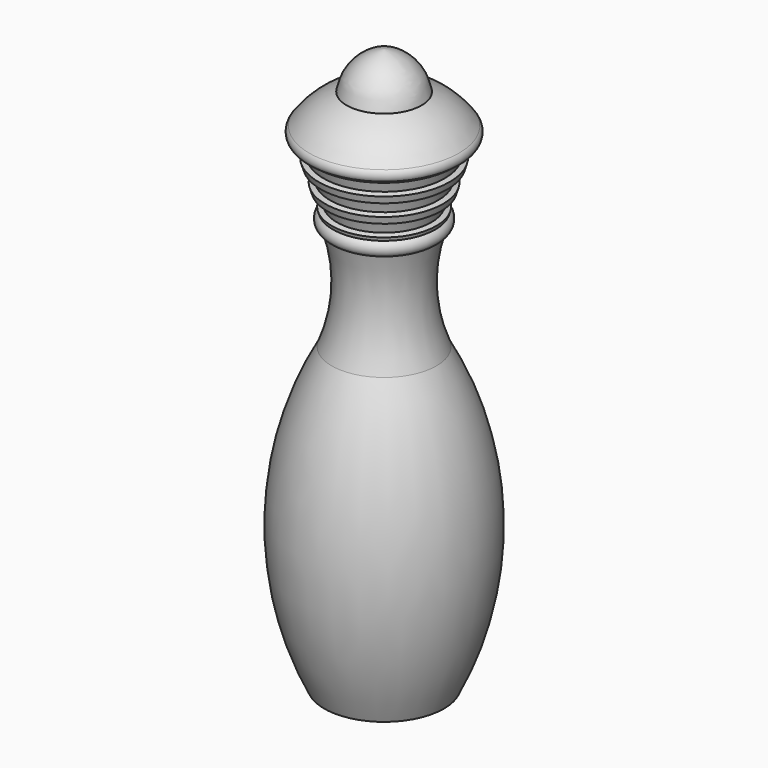
from build123d import *


with BuildPart() as f1:
    # F0 (on Front) → F1 (revolve)
    with BuildSketch(Plane.XZ):
        with BuildLine():
            Line((0, -75), (8, -75))
            ThreePointArc((8, -75), (12.48669, -54.875333), (7, -35))
            ThreePointArc((7, -35), (5.513022, -28.044178), (6.5, -21))
            ThreePointArc((6.5, -21), (7.31028, -20.111849), (6.852941, -19))
            Line((6.852941, -19), (7, -18.522115))
            Line((7, -18.522115), (6.330962, -18.316233))
            Line((6.330962, -18.316233), (6.919197, -16.404695))
            Line((6.919197, -16.404695), (7.588235, -16.610577))
            Line((7.588235, -16.610577), (7.882353, -15.654808))
            Line((7.882353, -15.654808), (7.213314, -15.448925))
            Line((7.213314, -15.448925), (7.80155, -13.537387))
            Line((7.80155, -13.537387), (8.470588, -13.743269))
            Line((8.470588, -13.743269), (8.764706, -12.7875))
            Line((8.764706, -12.7875), (8.095667, -12.581618))
            Line((8.095667, -12.581618), (8.683903, -10.670079))
            Line((8.683903, -10.670079), (9.352941, -10.875962))
            Line((9.352941, -10.875962), (9.5, -10.398077))
            Line((9.5, -10.398077), (10, -10.398077))
            ThreePointArc((10, -10.398077), (10.284916, -9.699038), (10, -9))
            ThreePointArc((10, -9), (7.771721, -6.660348), (5, -5))
            ThreePointArc((5, -5), (3.314813, -1.685187), (0, 0))
            Line((0, 0), (0, -75))
        make_face()
    revolve(axis=Axis((0, 0, -37.5), (0, 0, 1)))


solid = f1.part
